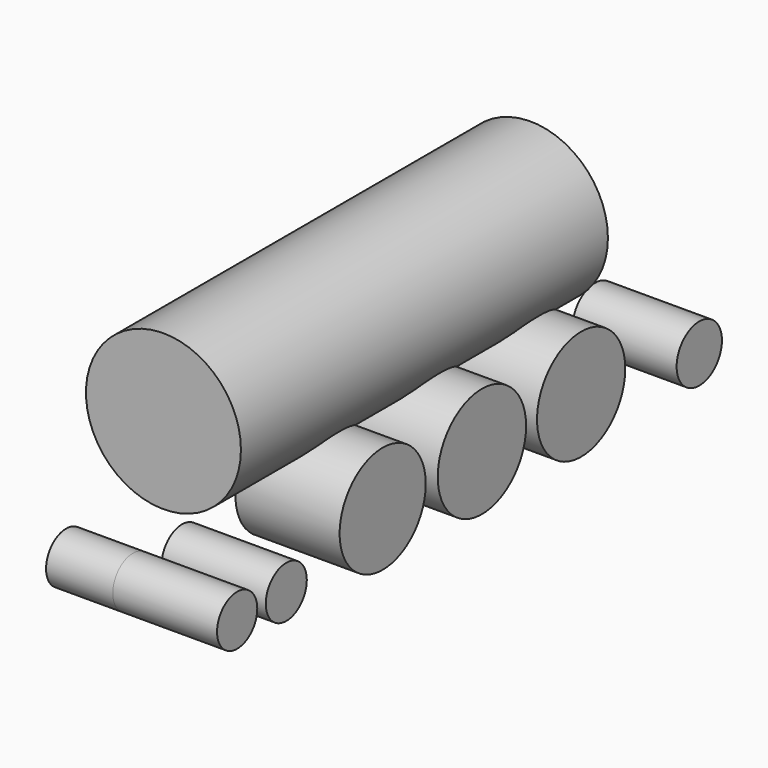
from build123d import *

# Parameters (mm, degrees)
F1_R          = 18.581408
F2_DEPTH      = 55
F2_DEPTH_BACK = 55
F0_R          = 6.0308
F3_DEPTH      = 16
F3_DEPTH_BACK = 16
F0_R_2        = 6.149382
F0_R_3        = 12.900607
F0_R_4        = 13.244357
F0_R_5        = 13.220098
F0_R_6        = 6.788227
F4_DEPTH      = 25


with BuildPart() as f2:
    # F1 (on Front) → F2 (new body, two sides)
    with BuildSketch(Plane.XZ) as f2_sk:
        with Locations((0, 30.168617)):
            Circle(F1_R)
    extrude(amount=F2_DEPTH)
    extrude(f2_sk.sketch, amount=-F2_DEPTH_BACK)


with BuildPart() as f3:
    # F0 (on Right) → F3 (new body, two sides)
    with BuildSketch(Plane.YZ) as f3_sk:
        with Locations((-64.161427, 0)):
            Circle(F0_R)
    extrude(amount=F3_DEPTH)
    extrude(f3_sk.sketch, amount=-F3_DEPTH_BACK)


with BuildPart() as f4:
    # F0 (on Right) → F4 (new body)
    with BuildSketch(Plane.YZ):
        with Locations((-64.161427, 0)):
            Circle(F0_R)
        with Locations((-49.431205, 0)):
            Circle(F0_R_2)
        with Locations((-20.537321, 5.807104)):
            Circle(F0_R_3)
        with Locations((9.206384, 5.807104)):
            Circle(F0_R_4)
        with Locations((38.950093, 5.807104)):
            Circle(F0_R_5)
        with Locations((74.35926, 0)):
            Circle(F0_R_6)
    extrude(amount=F4_DEPTH)


solid = Compound([f2.part, f3.part, f4.part])
